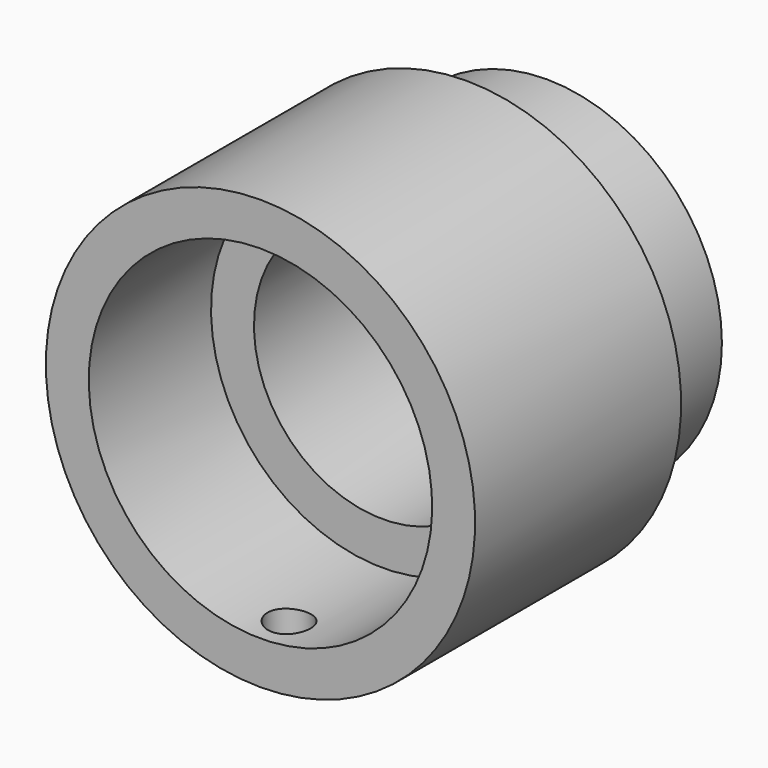
from build123d import *

# Parameters (mm, degrees)
F3_D     = 3
F3_DEPTH = 15.001


with BuildPart() as f1:
    # F0 (on Right) → F1 (revolve)
    with BuildSketch(Plane.YZ):
        Polygon((18, 15), (0, 15), (0, 12), (10.6802405789, 12), (10.6802405789, 9), (25, 9), (25, 12.25), (18, 12.25), align=None)
    revolve(axis=Axis((0, 31.0543179512, 0), (0, 1, 0)))

    # F3 (through all, one way)
    with BuildSketch(Plane.XY):
        with Locations((0, 2.5)):
            Circle(F3_D / 2)
    extrude(amount=-F3_DEPTH, mode=Mode.SUBTRACT)


solid = f1.part
